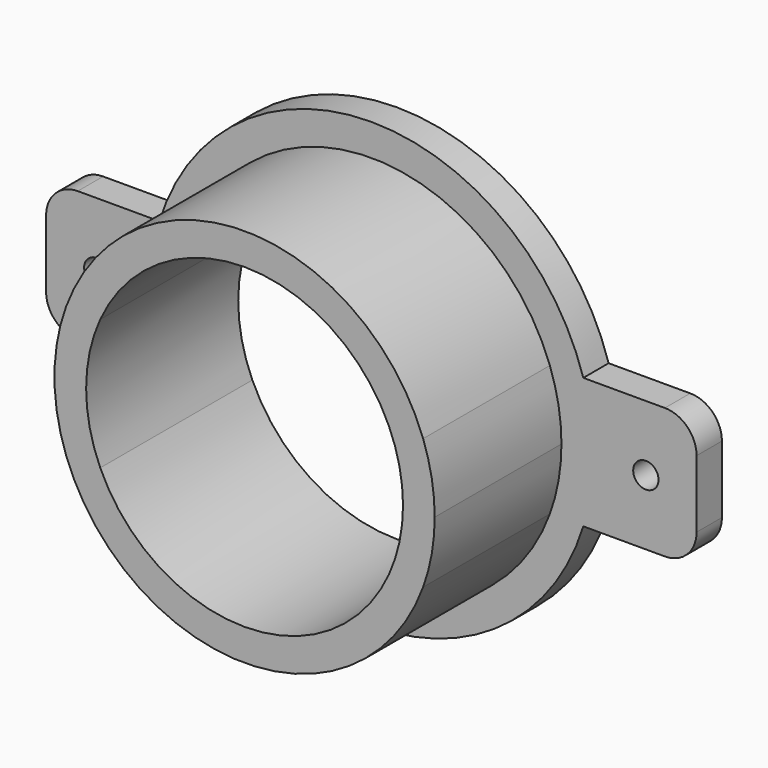
from build123d import *

# Parameters (mm, degrees)
F1_DEPTH = 30
F0_R     = 2
F2_DEPTH = 5


with BuildPart() as f1:
    # F0 (on Front) → F1 (new body)
    with BuildSketch(Plane.XZ):
        with BuildLine():
            ThreePointArc((-22.7745900685, 10.3110643104), (0, 25), (22.7745900685, 10.3110643104))
            Line((22.7745900685, 10.3110643104), (28.1723615053, 10.3110643104))
            ThreePointArc((28.1723615053, 10.3110643104), (0, 30), (-28.1723615053, 10.3110643104))
            Line((-28.1723615053, 10.3110643104), (-22.7745900685, 10.3110643104))
        make_face()
        with BuildLine():
            Line((28.1723615053, -10.3110643104), (22.7745900685, -10.3110643104))
            ThreePointArc((22.7745900685, -10.3110643104), (0, -25), (-22.7745900685, -10.3110643104))
            Line((-22.7745900685, -10.3110643104), (-28.1723615053, -10.3110643104))
            ThreePointArc((-28.1723615053, -10.3110643104), (0, -30), (28.1723615053, -10.3110643104))
        make_face()
        with BuildLine():
            ThreePointArc((-22.7745900685, -10.3110643104), (-25, 0), (-22.7745900685, 10.3110643104))
            Line((-22.7745900685, 10.3110643104), (-28.1723615053, 10.3110643104))
            ThreePointArc((-28.1723615053, 10.3110643104), (-30, 0), (-28.1723615053, -10.3110643104))
            Line((-28.1723615053, -10.3110643104), (-22.7745900685, -10.3110643104))
        make_face()
        with BuildLine():
            ThreePointArc((22.7745900685, 10.3110643104), (24.4373152342, 5.2742415705), (25, 0))
            ThreePointArc((25, 0), (24.4373152342, -5.2742415705), (22.7745900685, -10.3110643104))
            Line((22.7745900685, -10.3110643104), (28.1723615053, -10.3110643104))
            ThreePointArc((28.1723615053, -10.3110643104), (29.5395569124, -5.2358931826), (30, 0))
            ThreePointArc((30, 0), (29.5395569124, 5.2358931826), (28.1723615053, 10.3110643104))
            Line((28.1723615053, 10.3110643104), (22.7745900685, 10.3110643104))
        make_face()
    extrude(amount=F1_DEPTH)

    # F0 (on Front) → F2 (join)
    with BuildSketch(Plane.XZ):
        with BuildLine():
            ThreePointArc((-28.1723615053, -10.3110643104), (-30, 0), (-28.1723615053, 10.3110643104))
            Line((-28.1723615053, 10.3110643104), (-33.4467031677, 10.3110643104))
            ThreePointArc((-33.4467031677, 10.3110643104), (-35, 0), (-33.4467031677, -10.3110643104))
            Line((-33.4467031677, -10.3110643104), (-28.1723615053, -10.3110643104))
        make_face()
        with BuildLine():
            ThreePointArc((-28.1723615053, 10.3110643104), (0, 30), (28.1723615053, 10.3110643104))
            Line((28.1723615053, 10.3110643104), (33.4467031677, 10.3110643104))
            ThreePointArc((33.4467031677, 10.3110643104), (0, 35), (-33.4467031677, 10.3110643104))
            Line((-33.4467031677, 10.3110643104), (-28.1723615053, 10.3110643104))
        make_face()
        with BuildLine():
            Line((33.4467031677, 10.3110643104), (28.1723615053, 10.3110643104))
            ThreePointArc((28.1723615053, 10.3110643104), (29.5395569124, 5.2358931826), (30, 0))
            ThreePointArc((30, 0), (29.5395569124, -5.2358931826), (28.1723615053, -10.3110643104))
            Line((28.1723615053, -10.3110643104), (33.4467031677, -10.3110643104))
            ThreePointArc((33.4467031677, -10.3110643104), (34.60949733, -5.2137025774), (35, 0))
            ThreePointArc((35, 0), (34.60949733, 5.2137025774), (33.4467031677, 10.3110643104))
        make_face()
        with BuildLine():
            Line((33.4467031677, -10.3110643104), (28.1723615053, -10.3110643104))
            ThreePointArc((28.1723615053, -10.3110643104), (0, -30), (-28.1723615053, -10.3110643104))
            Line((-28.1723615053, -10.3110643104), (-33.4467031677, -10.3110643104))
            ThreePointArc((-33.4467031677, -10.3110643104), (0, -35), (33.4467031677, -10.3110643104))
        make_face()
        with BuildLine():
            ThreePointArc((-33.4467031677, -10.3110643104), (-35, 0), (-33.4467031677, 10.3110643104))
            Line((-33.4467031677, 10.3110643104), (-46.3196326792, 10.3110643104))
            ThreePointArc((-46.3196326792, 10.3110643104), (-49.8551665852, 8.8465982163), (-51.3196326792, 5.3110643104))
            Line((-51.3196326792, 5.3110643104), (-51.3196326792, -5.3110643104))
            ThreePointArc((-51.3196326792, -5.3110643104), (-49.8551665852, -8.8465982163), (-46.3196326792, -10.3110643104))
            Line((-46.3196326792, -10.3110643104), (-33.4467031677, -10.3110643104))
        make_face()
        with Locations((-43.3196326792, 0)):
            Circle(F0_R, mode=Mode.SUBTRACT)
        with BuildLine():
            Line((46.3196326792, 10.3110643104), (33.4467031677, 10.3110643104))
            ThreePointArc((33.4467031677, 10.3110643104), (34.60949733, 5.2137025774), (35, 0))
            ThreePointArc((35, 0), (34.60949733, -5.2137025774), (33.4467031677, -10.3110643104))
            Line((33.4467031677, -10.3110643104), (46.3196326792, -10.3110643104))
            ThreePointArc((46.3196326792, -10.3110643104), (49.8551665852, -8.8465982163), (51.3196326792, -5.3110643104))
            Line((51.3196326792, -5.3110643104), (51.3196326792, 5.3110643104))
            ThreePointArc((51.3196326792, 5.3110643104), (49.8551665852, 8.8465982163), (46.3196326792, 10.3110643104))
        make_face()
        with Locations((43.3196326792, 0)):
            Circle(F0_R, mode=Mode.SUBTRACT)
    extrude(amount=F2_DEPTH)


solid = f1.part
